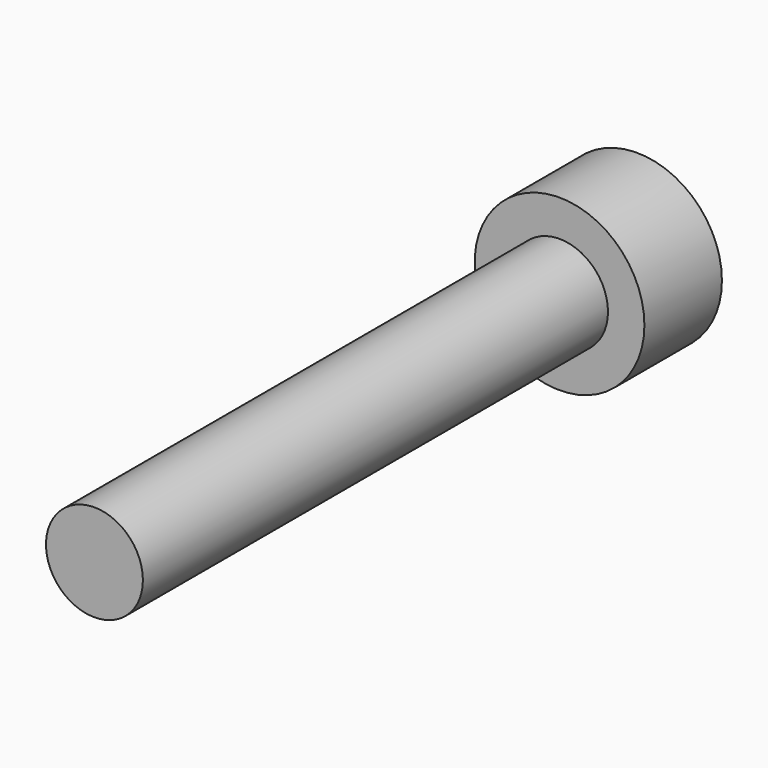
from build123d import *

# Parameters (mm, degrees)
F0_R     = 3.175
F1_DEPTH = 38.1
F2_R     = 5.5626
F3_DEPTH = 6.35


with BuildPart() as f1:
    # F0 (on Front) → F1 (new body)
    with BuildSketch(Plane.XZ):
        Circle(F0_R)
    extrude(amount=F1_DEPTH)

    # F2 (on Front) → F3 (join)
    with BuildSketch(Plane.XZ):
        Circle(F2_R)
    extrude(amount=-F3_DEPTH)


solid = f1.part
